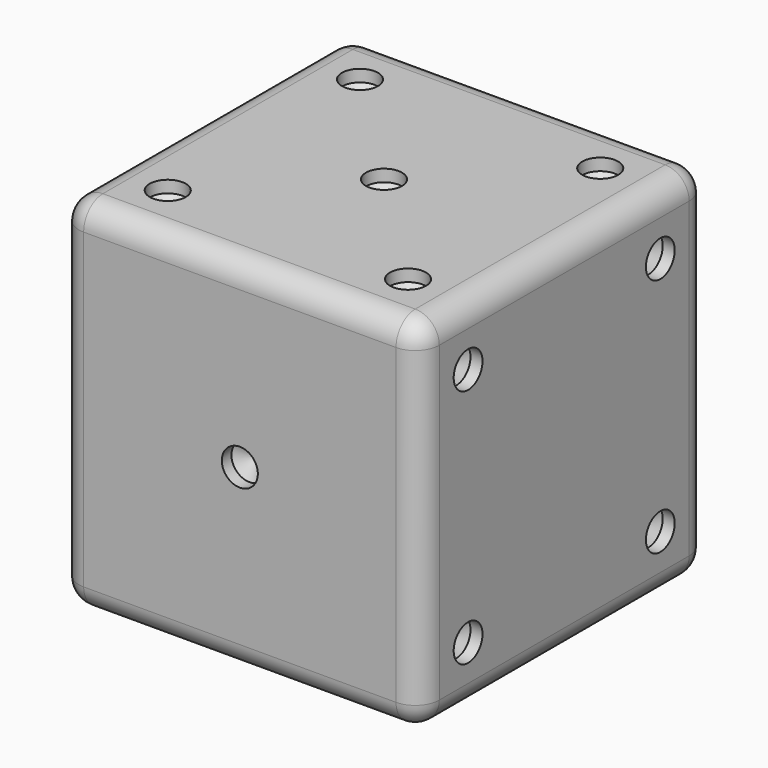
from build123d import *

# Parameters (mm, degrees)
F0_W           = 30
F0_H           = 30
F1_DEPTH       = 15
F2_R           = 2
F9_D           = 3
F9_DEPTH       = 1
F9_TIP         = 0.9012909285
F9_ON_F8_D     = 3
F9_ON_F8_DEPTH = 1
F9_ON_F8_TIP   = 0.9012909285
F9_ON_F6_D     = 3
F9_ON_F6_DEPTH = 1
F9_ON_F6_TIP   = 0.9012909285
F9_ON_F7_D     = 3
F9_ON_F7_DEPTH = 1
F9_ON_F7_TIP   = 0.9012909285
F9_ON_F4_D     = 3
F9_ON_F4_DEPTH = 1
F9_ON_F4_TIP   = 0.9012909285
F9_ON_F3_D     = 3
F9_ON_F3_DEPTH = 1
F9_ON_F3_TIP   = 0.9012909285


with BuildPart() as f1:
    # F0 (on Front) → F1 (new body, symmetric)
    with BuildSketch(Plane.XZ):
        Rectangle(F0_W, F0_H)
    extrude(amount=F1_DEPTH, both=True)

    # F2
    f2_edges = [f1.edges().sort_by_distance(p)[0] for p in [
        (0, -15, 15),
        (15, -15, 0),
        (15, 0, 15),
        (0, 15, 15),
        (-15, 0, 15),
        (15, 15, 0),
        (15, 0, -15),
        (0, -15, -15),
        (-15, -15, 0),
        (-15, 15, 0),
        (-15, 0, -15),
        (0, 15, -15),
    ]]
    fillet(f2_edges, radius=F2_R)

    # F9
    with Locations(Plane.YZ.offset(15)):
        with Locations((-10, 10), (-10, -10), (10, 10), (10, -10)):
            Hole(F9_D / 2, depth=F9_DEPTH)
            with Locations((0, 0, -(F9_DEPTH + F9_TIP / 2))):  # 118° drill point
                Cone(0, F9_D / 2, F9_TIP, mode=Mode.SUBTRACT)

    # F9 on F8
    with Locations(Plane(origin=(-15, 0, 0), x_dir=(0, -1, 0), z_dir=(-1, 0, 0))):
        with Locations((0, -10), (0, 10), (10, 10), (-10, 10), (10, -10), (-10, -10)):
            Hole(F9_ON_F8_D / 2, depth=F9_ON_F8_DEPTH)
            with Locations((0, 0, -(F9_ON_F8_DEPTH + F9_ON_F8_TIP / 2))):  # 118° drill point
                Cone(0, F9_ON_F8_D / 2, F9_ON_F8_TIP, mode=Mode.SUBTRACT)

    # F9 on F6
    with Locations(Plane(origin=(0, 15, 0), x_dir=(-1, 0, 0), z_dir=(0, 1, 0))):
        with Locations((10, -10), (-10, 10)):
            Hole(F9_ON_F6_D / 2, depth=F9_ON_F6_DEPTH)
            with Locations((0, 0, -(F9_ON_F6_DEPTH + F9_ON_F6_TIP / 2))):  # 118° drill point
                Cone(0, F9_ON_F6_D / 2, F9_ON_F6_TIP, mode=Mode.SUBTRACT)

    # F9 on F7
    with Locations(Plane.XY.offset(15)):
        with Locations((10, 10), (0, 0), (-10, 10), (10, -10), (-10, -10)):
            Hole(F9_ON_F7_D / 2, depth=F9_ON_F7_DEPTH)
            with Locations((0, 0, -(F9_ON_F7_DEPTH + F9_ON_F7_TIP / 2))):  # 118° drill point
                Cone(0, F9_ON_F7_D / 2, F9_ON_F7_TIP, mode=Mode.SUBTRACT)

    # F9 on F4
    with Locations(Plane(origin=(0, 0, -15), x_dir=(1, 0, 0), z_dir=(0, 0, -1))):
        with Locations((-9.9993329495, -9.9993329495), (9.9993329495, 9.9993329495), (0, 0)):
            Hole(F9_ON_F4_D / 2, depth=F9_ON_F4_DEPTH)
            with Locations((0, 0, -(F9_ON_F4_DEPTH + F9_ON_F4_TIP / 2))):  # 118° drill point
                Cone(0, F9_ON_F4_D / 2, F9_ON_F4_TIP, mode=Mode.SUBTRACT)

    # F9 on F3
    with Locations(Plane.XZ.offset(15)):
        with Locations((0, 0)):
            Hole(F9_ON_F3_D / 2, depth=F9_ON_F3_DEPTH)
            with Locations((0, 0, -(F9_ON_F3_DEPTH + F9_ON_F3_TIP / 2))):  # 118° drill point
                Cone(0, F9_ON_F3_D / 2, F9_ON_F3_TIP, mode=Mode.SUBTRACT)


solid = f1.part
